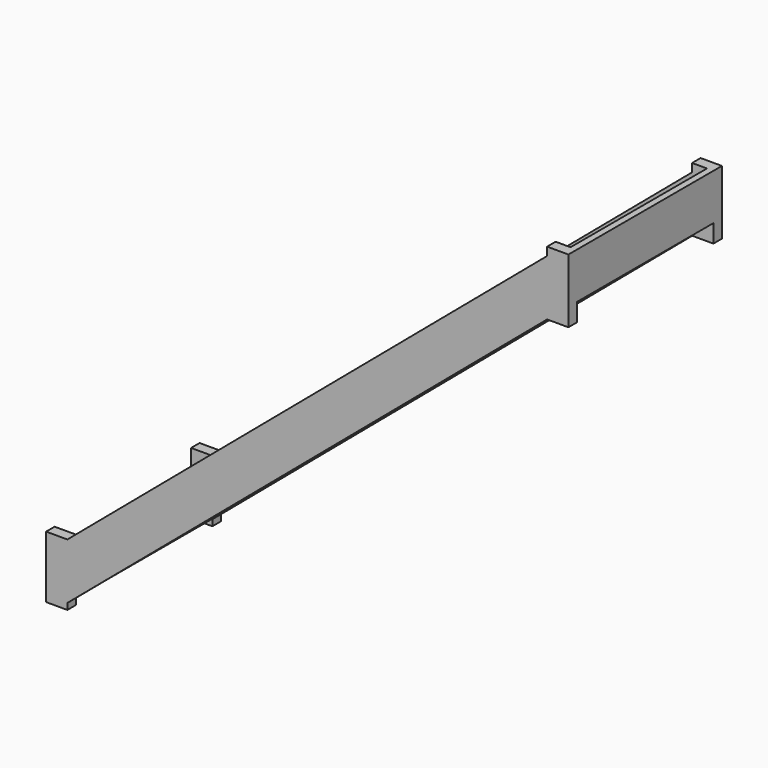
from build123d import *

# Parameters (mm, degrees)
F0_W     = 30
F0_H     = 156
F0_H_2   = 186
F1_DEPTH = 800
F3_DEPTH = 50
F5_DEPTH = 50


with BuildPart() as f1:
    # F0 (on Front) → F1 (new body)
    with BuildSketch(Plane.XZ):
        with Locations((15, 78)):
            Rectangle(F0_W, F0_H)
        Polygon((0, 186), (0, 156), (30, 156), (250, 156), (250, 186), (220, 186), align=None)
        with Locations((235, 264)):
            Rectangle(F0_W, F0_H)
        Polygon((220, 372), (220, 342), (250, 342), (470, 342), (470, 372), (440, 372), align=None)
        with Locations((455, 450)):
            Rectangle(F0_W, F0_H)
        Polygon((440, 558), (440, 528), (470, 528), (690, 528), (690, 558), (660, 558), align=None)
        with Locations((675, 636)):
            Rectangle(F0_W, F0_H)
        Polygon((660, 744), (660, 714), (690, 714), (910, 714), (910, 744), (880, 744), align=None)
        with Locations((895, 822)):
            Rectangle(F0_W, F0_H)
        Polygon((880, 930), (880, 900), (910, 900), (1130, 900), (1130, 930), (1100, 930), align=None)
        with Locations((1115, 1008)):
            Rectangle(F0_W, F0_H)
        Polygon((1100, 1116), (1100, 1086), (1130, 1086), (1350, 1086), (1350, 1116), (1320, 1116), align=None)
        with Locations((1335, 1194)):
            Rectangle(F0_W, F0_H)
        Polygon((1320, 1302), (1320, 1272), (1350, 1272), (1570, 1272), (1570, 1302), (1540, 1302), align=None)
        with Locations((1555, 1380)):
            Rectangle(F0_W, F0_H)
        Polygon((1540, 1488), (1540, 1458), (1570, 1458), (1790, 1458), (1790, 1488), (1760, 1488), align=None)
        with Locations((1775, 1566)):
            Rectangle(F0_W, F0_H)
        Polygon((1760, 1674), (1760, 1644), (1790, 1644), (2010, 1644), (2010, 1674), (1980, 1674), align=None)
        with Locations((1995, 1752)):
            Rectangle(F0_W, F0_H)
        Polygon((1980, 1860), (1980, 1830), (2010, 1830), (2230, 1830), (2230, 1860), (2200, 1860), align=None)
        with Locations((2215, 1938)):
            Rectangle(F0_W, F0_H)
        Polygon((2200, 2046), (2200, 2016), (2230, 2016), (2420, 2016), (2450, 2016), (2450, 2046), (2420, 2046), align=None)
        with Locations((2435, 2139)):
            Rectangle(F0_W, F0_H_2)
    extrude(amount=F1_DEPTH)

    # F2 (on face) → F3 (join)
    with BuildSketch(Plane.XZ.offset(800)):
        Polygon((2450, 1931.4545454545), (2450, 2232), (2350, 2232), (2350, 2193.3547851207), (2350, 2062.4046652876), (2350, 1931.4545454545), align=None)
        Polygon((100, 29.1818181818), (2350, 1931.4545454545), (2350, 2062.4046652876), (100, 160.1319380149), align=None)
        Polygon((2350, 2062.4046652876), (2350, 2193.3547851207), (100, 291.082057848), (100, 186), (100, 160.1319380149), align=None)
        Polygon((100, 0), (100, 29.1818181818), (100, 160.1319380149), (100, 186), (100, 291.082057848), (0, 291.082057848), (0, 0), align=None)
    extrude(amount=F3_DEPTH)

    # F4 (on face) → F5 (join)
    with BuildSketch(Plane.XZ):
        Polygon((2450, 1931.4545454545), (2450, 2232), (2350, 2232), (2350, 2193.3547851207), (2350, 2062.4046652876), (2350, 1931.4545454545), align=None)
        Polygon((100, 29.1818181818), (2350, 1931.4545454545), (2350, 2062.4046652876), (100, 160.1319380149), align=None)
        Polygon((2350, 2062.4046652876), (2350, 2193.3547851207), (100, 291.082057848), (100, 186), (100, 160.1319380149), align=None)
        Polygon((100, 0), (100, 29.1818181818), (100, 160.1319380149), (100, 186), (100, 291.082057848), (0, 291.082057848), (0, 0), align=None)
    extrude(amount=-F5_DEPTH)


solid = f1.part
